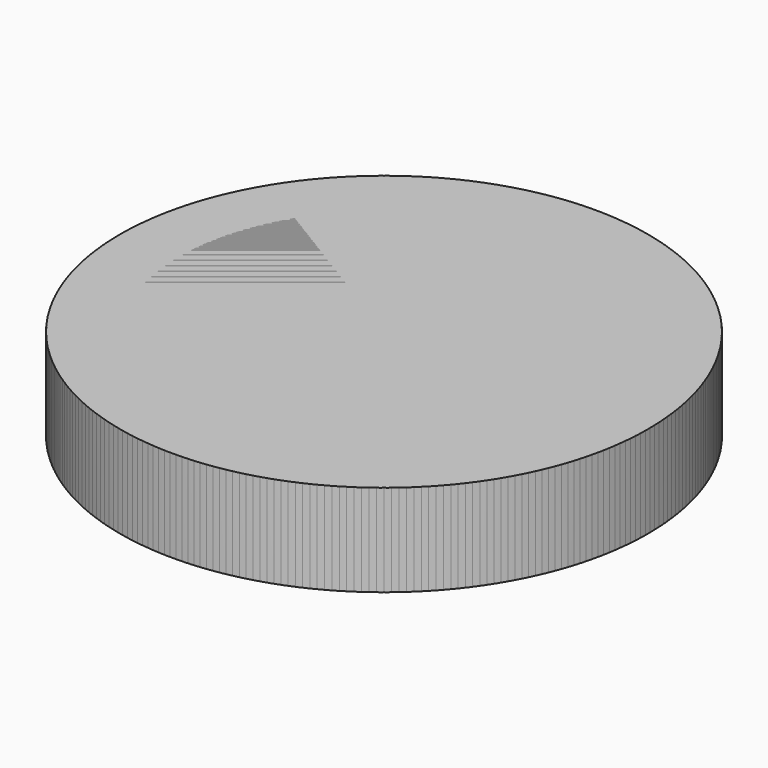
from build123d import *

# Parameters (mm, degrees)
F0_W     = 50.8
F0_H     = 17.713159
F3_DEPTH = 25.4
F4_COUNT = 4


with BuildPart() as f1:
    # F0 (on Front) → F1 (revolve)
    with BuildSketch(Plane.XZ):
        with Locations((-25.4, -8.856579)):
            Rectangle(F0_W, F0_H)
    revolve(axis=Axis((0, 0, -8.856579), (0, 0, -1)))

    # F2 (on face) → F3 (cut)
    with BuildSketch(Plane.XY):
        with BuildLine():
            Line((-20.436867, 33.550523), (0, 0))
            Line((0, 0), (20.436867, 33.550523))
            ThreePointArc((20.436867, 33.550523), (0, 39.284897), (-20.436867, 33.550523))
        make_face()
    extrude(amount=-F3_DEPTH, mode=Mode.SUBTRACT)


with BuildPart() as f4_1:
    # F4: instance of F1
    add(f1.part.rotate(Axis((0, 0, 0), (0, 0, -1)), 1 * 360 / F4_COUNT))


with BuildPart() as f4_2:
    # F4: instance of F1
    add(f1.part.rotate(Axis((0, 0, 0), (0, 0, -1)), 2 * 360 / F4_COUNT))


with BuildPart() as f4_3:
    # F4: instance of F1
    add(f1.part.rotate(Axis((0, 0, 0), (0, 0, -1)), 3 * 360 / F4_COUNT))


solid = Compound([f1.part, f4_1.part, f4_2.part, f4_3.part])
